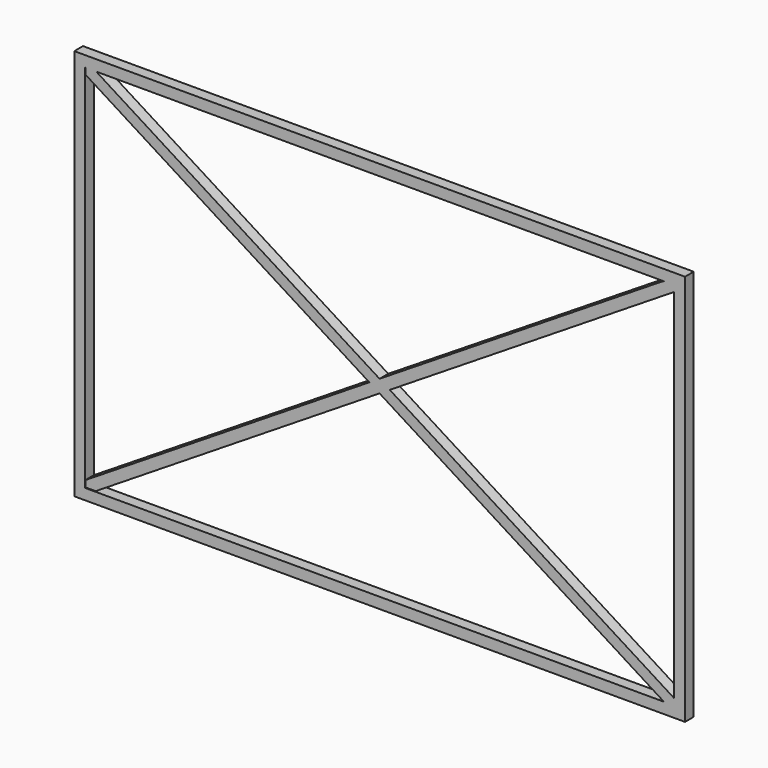
from build123d import *

# Parameters (mm, degrees)
F0_W     = 2805
F0_H     = 1800
F0_W_2   = 2705
F0_H_2   = 1700
F1_DEPTH = 50
F3_DEPTH = 50


with BuildPart() as f1:
    # F0 (on Front) → F1 (new body)
    with BuildSketch(Plane.XZ):
        Rectangle(F0_W, F0_H)
        Rectangle(F0_W_2, F0_H_2, mode=Mode.SUBTRACT)
    extrude(amount=F1_DEPTH)

    # F2 (on Front) → F3 (join)
    with BuildSketch(Plane.XZ):
        Polygon((-0.4564745023, -27.9464024116), (856.6796878057, -567.3510735473), (1306.2791736247, -850.2886900607), (1352.2511720658, -849.6809005737), (1352.2511720658, -820.1424559689), (1027.5558522008, -615.8083257189), (46.5170749249, 1.5695452636), align=None)
        Polygon((-1304.095882075, -847.0914959908), (-0.4564745023, -27.9464024116), (-47.4097524251, 1.6017820547), (-1351.9827345961, -818.1299254663), (-1351.0849475861, -847.0914959908), align=None)
        Polygon((-47.4097524251, 1.6017820547), (-0.4564745023, -27.9464024116), (46.5170749249, 1.5695452636), (-0.4362029979, 31.11772973), align=None)
        Polygon((-1351.0849475861, 822.0180949308), (-47.4097524251, 1.6017820547), (-0.4362029979, 31.11772973), (-1302.4441379798, 850.4848184942), (-1351.0849475861, 851.5565395355), align=None)
        Polygon((-0.4362029979, 31.11772973), (46.5170749249, 1.5695452636), (1004.8448605695, 603.7372145526), (1352.2308851105, 822.0180949308), (1352.2511720657, 851.5565395355), (1301.7639452347, 849.3584610906), (904.9684635461, 600.0310243074), align=None)
    extrude(amount=F3_DEPTH)


solid = f1.part
